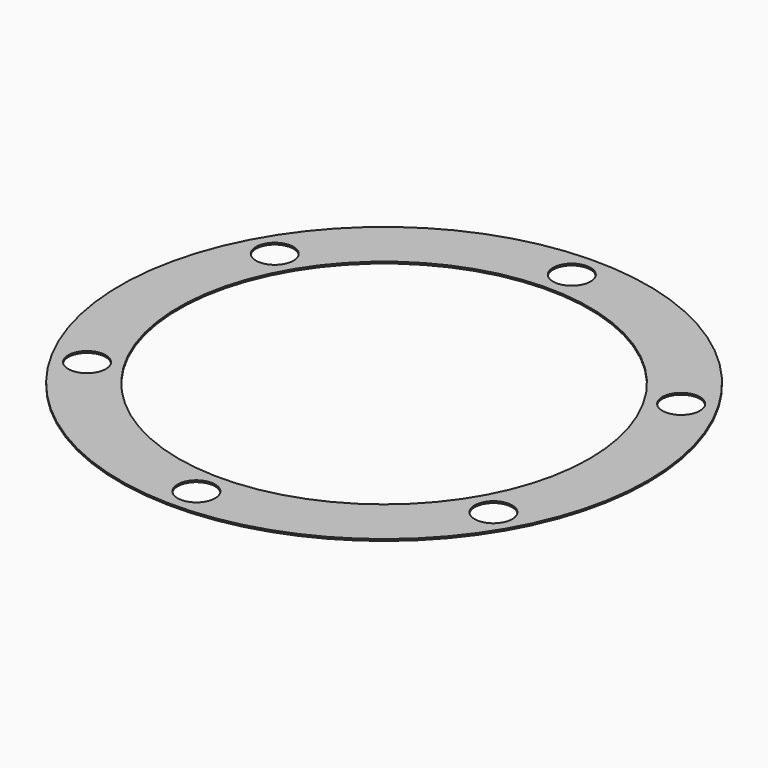
from build123d import *

# Parameters (mm, degrees)
F0_R     = 57.15
F0_R_2   = 4.064
F0_R_3   = 44.45
F1_DEPTH = 0.381


with BuildPart() as f1:
    # F0 (on Top) → F1 (new body)
    with BuildSketch(Plane.XY):
        Circle(F0_R)
        with Locations((-43.994091, -25.4)):
            Circle(F0_R_2, mode=Mode.SUBTRACT)
        with Locations((0, -50.8)):
            Circle(F0_R_2, mode=Mode.SUBTRACT)
        with Locations((43.994091, -25.4)):
            Circle(F0_R_2, mode=Mode.SUBTRACT)
        with Locations((-43.994091, 25.4)):
            Circle(F0_R_2, mode=Mode.SUBTRACT)
        Circle(F0_R_3, mode=Mode.SUBTRACT)
        with Locations((43.994091, 25.4)):
            Circle(F0_R_2, mode=Mode.SUBTRACT)
        with Locations((0, 50.8)):
            Circle(F0_R_2, mode=Mode.SUBTRACT)
    extrude(amount=F1_DEPTH)


solid = f1.part
